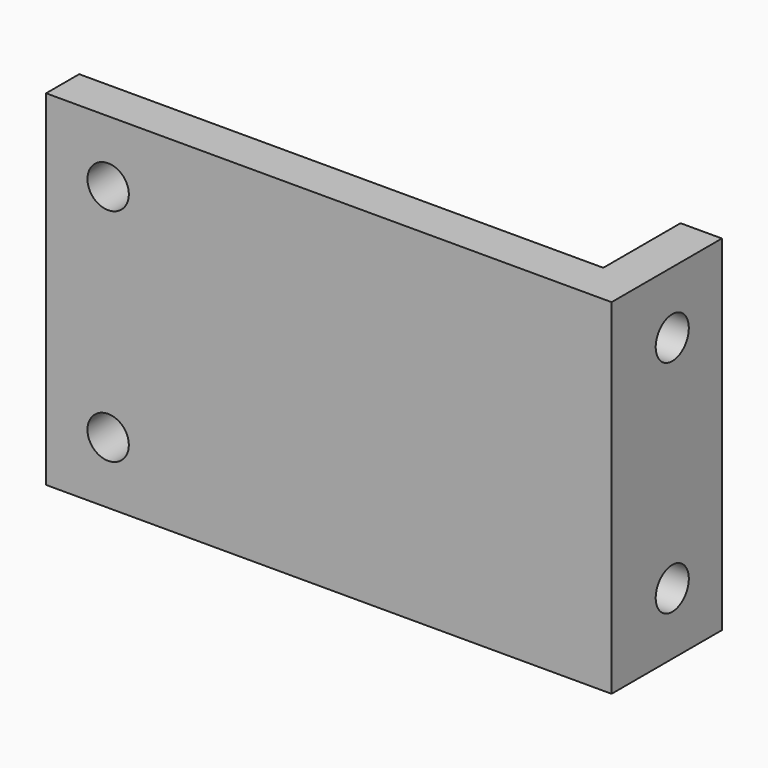
from build123d import *

# Parameters (mm, degrees)
F0_W     = 3
F0_H     = 7
F1_DEPTH = 12.5
F2_R     = 1.5
F3_DEPTH = 25.4
F4_R     = 1.5
F5_DEPTH = 25.4


with BuildPart() as f1:
    # F0 (on Top) → F1 (new body, symmetric)
    with BuildSketch(Plane.XY):
        Polygon((0, 3), (0, 0), (41, 0), (41, 3), (38, 3), align=None)
        with Locations((39.5, 6.5)):
            Rectangle(F0_W, F0_H)
    extrude(amount=F1_DEPTH, both=True)

    # F2 (on face) → F3 (cut)
    with BuildSketch(Plane.XZ):
        with Locations((4.5, 8)):
            Circle(F2_R)
        with Locations((4.5, -8)):
            Circle(F2_R)
    extrude(amount=-F3_DEPTH, mode=Mode.SUBTRACT)

    # F4 (on face) → F5 (cut)
    with BuildSketch(Plane.YZ.offset(41)):
        with Locations((5.5, 8)):
            Circle(F4_R)
        with Locations((5.5, -8)):
            Circle(F4_R)
    extrude(amount=-F5_DEPTH, mode=Mode.SUBTRACT)


solid = f1.part
